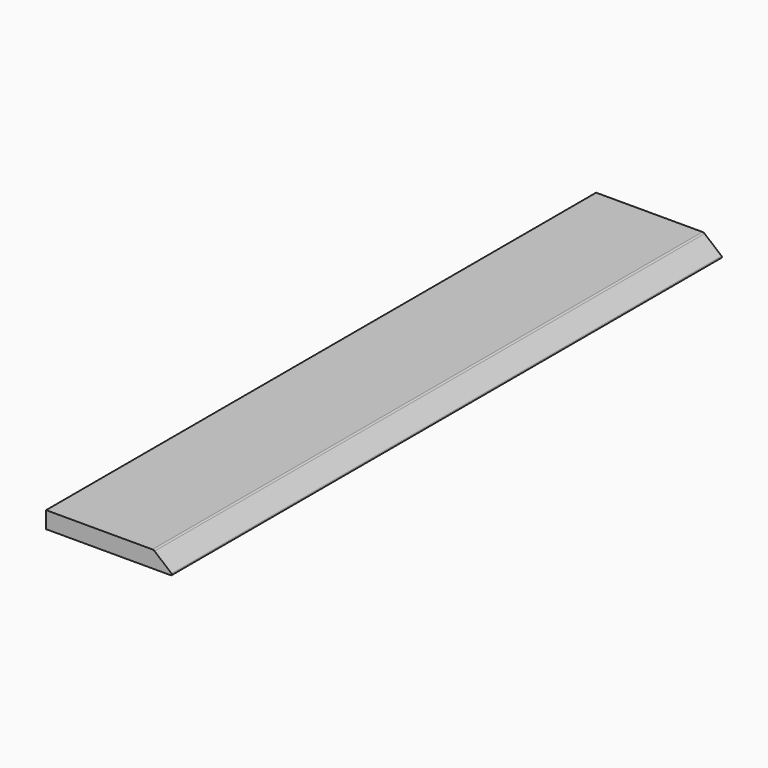
from build123d import *

# Parameters (mm, degrees)
F0_W     = 190
F0_H     = 1024
F1_DEPTH = 25
F3_DEPTH = 1024


with BuildPart() as f1:
    # F0 (on Top) → F1 (new body)
    with BuildSketch(Plane.XY):
        Rectangle(F0_W, F0_H)
    extrude(amount=F1_DEPTH)

    # F2 (on face) → F3 (cut)
    with BuildSketch(Plane.XZ.offset(512)):
        with BuildLine():
            ThreePointArc((63.386309, 25), (65.09641, 24.698463), (66.600247, 23.830222))
            Line((66.600247, 23.830222), (91.842965, 2.649067))
            ThreePointArc((91.842965, 2.649067), (92.288323, 0.98697), (90.878784, 0))
            Line((90.878784, 0), (95, 0))
            Line((95, 0), (95, 25))
            Line((95, 25), (65.20616, 25))
            Line((65.20616, 25), (63.386309, 25))
        make_face()
    extrude(amount=-F3_DEPTH, mode=Mode.SUBTRACT)


solid = f1.part
